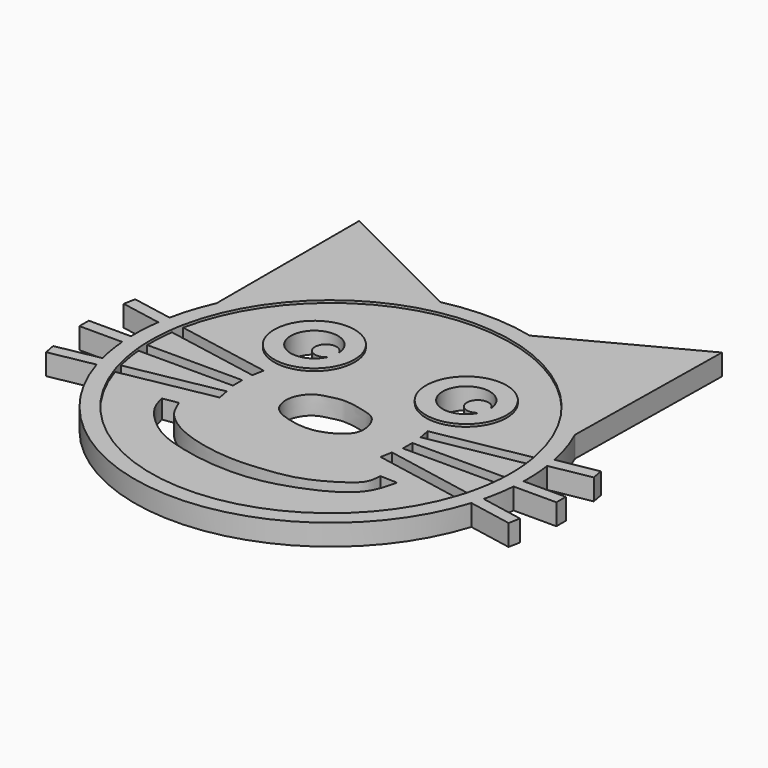
from build123d import *

# Parameters (mm, degrees)
F1_DEPTH = 2.15
F0_R     = 4.1036540216
F2_DEPTH = 1.9


with BuildPart() as f1:
    # F0 (on Top) → F1 (new body)
    with BuildSketch(Plane.XY):
        with BuildLine():
            ThreePointArc((-18.2315145686, 8.2226441328), (-12.65969487, 15.4832853684), (-4.4368690482, 19.5016459062))
            Line((-4.4368690482, 19.5016459062), (-18.2315145686, 26.3684952472))
            Line((-18.2315145686, 26.3684952472), (-18.2315145686, 8.2226441328))
        make_face()
        with BuildLine():
            ThreePointArc((19.6037292835, 3.9615398747), (19.0177158249, 6.1908387802), (18.179090742, 8.3379050004))
            ThreePointArc((18.179090742, 8.3379050004), (12.7135725246, 15.439076192), (4.6958516098, 19.4409098979))
            ThreePointArc((4.6958516098, 19.4409098979), (0.1330045393, 19.9995577399), (-4.4368690482, 19.5016459062))
            ThreePointArc((-4.4368690482, 19.5016459062), (-12.65969487, 15.4832853684), (-18.2315145686, 8.2226441328))
            ThreePointArc((-18.2315145686, 8.2226441328), (-19.0372180665, 6.1306058663), (-19.6037292835, 3.9615398747))
            Line((-19.6037292835, 3.9615398747), (-17.978764876, 3.6621177333))
            ThreePointArc((-17.978764876, 3.6621177333), (0, 18.3479451917), (17.978764876, 3.6621177333))
            Line((17.978764876, 3.6621177333), (19.6037292835, 3.9615398747))
        make_face()
        with BuildLine():
            ThreePointArc((4.6958516098, 19.4409098979), (12.7135725246, 15.439076192), (18.179090742, 8.3379050004))
            Line((18.179090742, 8.3379050004), (18.4577219188, 26.7067048699))
            Line((18.4577219188, 26.7067048699), (4.6958516098, 19.4409098979))
        make_face()
        with BuildLine():
            ThreePointArc((-18.3421170895, -0.4624212731), (-18.3200411776, 1.0115255856), (-18.1797121369, 2.4789431978))
            Line((-18.1797121369, 2.4789431978), (-19.8060417091, 2.7786168896))
            ThreePointArc((-19.8060417091, 2.7786168896), (-19.9662193685, 1.1619312074), (-19.9946534495, -0.4624212731))
            Line((-19.9946534495, -0.4624212731), (-18.3421170895, -0.4624212731))
        make_face()
        with BuildLine():
            ThreePointArc((-19.8060417091, 2.7786168896), (-19.7137601466, 3.3715961919), (-19.6037292835, 3.9615398747))
            Line((-19.6037292835, 3.9615398747), (-23.7219620696, 4.72038116))
            Line((-23.7219620696, 4.72038116), (-23.9394178087, 3.5402485397))
            Line((-23.9394178087, 3.5402485397), (-19.8060417091, 2.7786168896))
        make_face()
        with BuildLine():
            ThreePointArc((-18.1797121369, 2.4789431978), (-18.0889148505, 3.0721738704), (-17.978764876, 3.6621177333))
            Line((-17.978764876, 3.6621177333), (-19.6037292835, 3.9615398747))
            ThreePointArc((-19.6037292835, 3.9615398747), (-19.7137601466, 3.3715961919), (-19.8060417091, 2.7786168896))
            Line((-19.8060417091, 2.7786168896), (-18.1797121369, 2.4789431978))
        make_face()
        with BuildLine():
            ThreePointArc((-18.2724778908, -1.6624212731), (-18.3171269962, -1.0629917055), (-18.3421170895, -0.4624212731))
            Line((-18.3421170895, -0.4624212731), (-19.9946534495, -0.4624212731))
            ThreePointArc((-19.9946534495, -0.4624212731), (-19.9717360631, -1.0629010416), (-19.9307891342, -1.6624212731))
            Line((-19.9307891342, -1.6624212731), (-18.2724778908, -1.6624212731))
        make_face()
        with BuildLine():
            ThreePointArc((-19.9307891342, -1.6624212731), (-19.9717360631, -1.0629010416), (-19.9946534495, -0.4624212731))
            Line((-19.9946534495, -0.4624212731), (-24.2901714519, -0.4624212731))
            Line((-24.2901714519, -0.4624212731), (-24.2901714519, -1.6624212731))
            Line((-24.2901714519, -1.6624212731), (-19.9307891342, -1.6624212731))
        make_face()
        with BuildLine():
            ThreePointArc((-19.0850973204, -5.9798879815), (-19.2565147907, -5.4024659293), (-19.4104665936, -4.8201438381))
            Line((-19.4104665936, -4.8201438381), (-23.7761723296, -5.645501185))
            Line((-23.7761723296, -5.645501185), (-23.5532553866, -6.8246144266))
            Line((-23.5532553866, -6.8246144266), (-19.0850973204, -5.9798879815))
        make_face()
        with BuildLine():
            ThreePointArc((-17.4496494979, -5.6706988246), (-17.6265029869, -5.0944563215), (-17.7843327477, -4.5127155326))
            Line((-17.7843327477, -4.5127155326), (-19.4104665936, -4.8201438381))
            ThreePointArc((-19.4104665936, -4.8201438381), (-19.2565147907, -5.4024659293), (-19.0850973204, -5.9798879815))
            Line((-19.0850973204, -5.9798879815), (-17.4496494979, -5.6706988246))
        make_face()
        with BuildLine():
            ThreePointArc((-17.7843327477, -4.5127155326), (-18.0846466014, -3.0972003588), (-18.2724778908, -1.6624212731))
            Line((-18.2724778908, -1.6624212731), (-19.9307891342, -1.6624212731))
            ThreePointArc((-19.9307891342, -1.6624212731), (-19.7338897207, -3.2517067044), (-19.4104665936, -4.8201438381))
            Line((-19.4104665936, -4.8201438381), (-17.7843327477, -4.5127155326))
        make_face()
        with BuildLine():
            ThreePointArc((-19.0850973204, -5.9798879815), (0, -20), (19.0850973204, -5.9798879815))
            Line((19.0850973204, -5.9798879815), (17.4496494979, -5.6706988246))
            ThreePointArc((17.4496494979, -5.6706988246), (0, -18.3479451917), (-17.4496494979, -5.6706988246))
            Line((-17.4496494979, -5.6706988246), (-19.0850973204, -5.9798879815))
        make_face()
        with BuildLine():
            ThreePointArc((19.4104665936, -4.8201438381), (19.7338897207, -3.2517067044), (19.9307891342, -1.6624212731))
            Line((19.9307891342, -1.6624212731), (18.2724778908, -1.6624212731))
            ThreePointArc((18.2724778908, -1.6624212731), (18.0846466014, -3.0972003588), (17.7843327477, -4.5127155326))
            Line((17.7843327477, -4.5127155326), (19.4104665936, -4.8201438381))
        make_face()
        with BuildLine():
            ThreePointArc((19.0850973204, -5.9798879815), (19.2565147907, -5.4024659293), (19.4104665936, -4.8201438381))
            Line((19.4104665936, -4.8201438381), (17.7843327477, -4.5127155326))
            ThreePointArc((17.7843327477, -4.5127155326), (17.6265029869, -5.0944563215), (17.4496494979, -5.6706988246))
            Line((17.4496494979, -5.6706988246), (19.0850973204, -5.9798879815))
        make_face()
        with BuildLine():
            Line((23.7761723296, -5.645501185), (19.4104665936, -4.8201438381))
            ThreePointArc((19.4104665936, -4.8201438381), (19.2565147907, -5.4024659293), (19.0850973204, -5.9798879815))
            Line((19.0850973204, -5.9798879815), (23.5532553866, -6.8246144266))
            Line((23.5532553866, -6.8246144266), (23.7761723296, -5.645501185))
        make_face()
        with BuildLine():
            Line((24.2901714519, -0.4624212731), (19.9946534495, -0.4624212731))
            ThreePointArc((19.9946534495, -0.4624212731), (19.9717360631, -1.0629010416), (19.9307891342, -1.6624212731))
            Line((19.9307891342, -1.6624212731), (24.2901714519, -1.6624212731))
            Line((24.2901714519, -1.6624212731), (24.2901714519, -0.4624212731))
        make_face()
        with BuildLine():
            ThreePointArc((19.9307891342, -1.6624212731), (19.9717360631, -1.0629010416), (19.9946534495, -0.4624212731))
            Line((19.9946534495, -0.4624212731), (18.3421170895, -0.4624212731))
            ThreePointArc((18.3421170895, -0.4624212731), (18.3171269962, -1.0629917055), (18.2724778908, -1.6624212731))
            Line((18.2724778908, -1.6624212731), (19.9307891342, -1.6624212731))
        make_face()
        with BuildLine():
            ThreePointArc((20, 0), (19.9514515033, 1.3926890929), (19.8060417091, 2.7786168896))
            Line((19.8060417091, 2.7786168896), (18.1797121369, 2.4789431978))
            ThreePointArc((18.1797121369, 2.4789431978), (18.305838613, 1.2423225969), (18.3479451917, 0))
            ThreePointArc((18.3479451917, 0), (18.3464881083, -0.2312289993), (18.3421170895, -0.4624212731))
            Line((18.3421170895, -0.4624212731), (19.9946534495, -0.4624212731))
            ThreePointArc((19.9946534495, -0.4624212731), (19.9986633177, -0.2312260903), (20, 0))
        make_face()
        with BuildLine():
            Line((23.7219620696, 4.72038116), (19.6037292835, 3.9615398747))
            ThreePointArc((19.6037292835, 3.9615398747), (19.7137601466, 3.3715961919), (19.8060417091, 2.7786168896))
            Line((19.8060417091, 2.7786168896), (23.9394178087, 3.5402485397))
            Line((23.9394178087, 3.5402485397), (23.7219620696, 4.72038116))
        make_face()
        with BuildLine():
            ThreePointArc((19.8060417091, 2.7786168896), (19.7137601466, 3.3715961919), (19.6037292835, 3.9615398747))
            Line((19.6037292835, 3.9615398747), (17.978764876, 3.6621177333))
            ThreePointArc((17.978764876, 3.6621177333), (18.0889148505, 3.0721738704), (18.1797121369, 2.4789431978))
            Line((18.1797121369, 2.4789431978), (19.8060417091, 2.7786168896))
        make_face()
    extrude(amount=F1_DEPTH)


with BuildPart() as f1b:
    # F0 (on Top) → F1, piece 2 (new body)
    with BuildSketch(Plane.XY):
        with Locations((-7.7118381825, 7.5312841645)):
            Circle(F0_R)
        with BuildLine():
            ThreePointArc((-5.5369759371, 6.5077966729), (-10.0723658161, 7.9845630229), (-5.3125703898, 7.6764271657))
            ThreePointArc((-5.3125703898, 7.6764271657), (-5.253350505, 7.4752971286), (-5.2333685565, 7.2665843875))
            ThreePointArc((-5.2333685565, 7.2665843875), (-5.3120870377, 6.8579475569), (-5.5369759371, 6.5077966729))
        make_face(mode=Mode.SUBTRACT)
        with BuildLine():
            ThreePointArc((-5.5369759371, 6.5077966729), (-5.3660793806, 7.0069101804), (-5.3081842074, 7.5312841645))
            ThreePointArc((-5.3081842074, 7.5312841645), (-5.3092810033, 7.6038887948), (-5.3125703898, 7.6764271657))
            ThreePointArc((-5.3125703898, 7.6764271657), (-7.4136323648, 7.4740213769), (-5.5369759371, 6.5077966729))
        make_face()
        with BuildLine():
            ThreePointArc((-5.3125703898, 7.6764271657), (-5.3092810033, 7.6038887948), (-5.3081842074, 7.5312841645))
            ThreePointArc((-5.3081842074, 7.5312841645), (-5.3660793806, 7.0069101804), (-5.5369759371, 6.5077966729))
            ThreePointArc((-5.5369759371, 6.5077966729), (-5.3120870377, 6.8579475569), (-5.2333685565, 7.2665843875))
            ThreePointArc((-5.2333685565, 7.2665843875), (-5.253350505, 7.4752971286), (-5.3125703898, 7.6764271657))
        make_face()
    extrude(amount=F1_DEPTH)


with BuildPart() as f1c:
    # F0 (on Top) → F1, piece 3 (new body)
    with BuildSketch(Plane.XY):
        with Locations((7.7149522848, 7.5865211994)):
            Circle(F0_R)
        with BuildLine():
            ThreePointArc((9.8898145302, 6.5630337078), (5.3544246513, 8.0398000578), (10.1142200775, 7.7316642005))
            ThreePointArc((10.1142200775, 7.7316642005), (10.1734399624, 7.5305341635), (10.1934219108, 7.3218214224))
            ThreePointArc((10.1934219108, 7.3218214224), (10.1147034296, 6.9131845918), (9.8898145302, 6.5630337078))
        make_face(mode=Mode.SUBTRACT)
        with BuildLine():
            ThreePointArc((9.8898145302, 6.5630337078), (10.0607110867, 7.0621472153), (10.1186062599, 7.5865211994))
            ThreePointArc((10.1186062599, 7.5865211994), (10.1175094641, 7.6591258297), (10.1142200775, 7.7316642005))
            ThreePointArc((10.1142200775, 7.7316642005), (8.0131581026, 7.5292584118), (9.8898145302, 6.5630337078))
        make_face()
        with BuildLine():
            ThreePointArc((10.1142200775, 7.7316642005), (10.1175094641, 7.6591258297), (10.1186062599, 7.5865211994))
            ThreePointArc((10.1186062599, 7.5865211994), (10.0607110867, 7.0621472153), (9.8898145302, 6.5630337078))
            ThreePointArc((9.8898145302, 6.5630337078), (10.1147034296, 6.9131845918), (10.1934219108, 7.3218214224))
            ThreePointArc((10.1934219108, 7.3218214224), (10.1734399624, 7.5305341635), (10.1142200775, 7.7316642005))
        make_face()
    extrude(amount=F1_DEPTH)


with BuildPart() as f2:
    # F0 (on Top) → F2 (new body)
    with BuildSketch(Plane.XY):
        with BuildLine():
            Line((8.3496756393, 1.887825013), (17.978764876, 3.6621177333))
            ThreePointArc((17.978764876, 3.6621177333), (0, 18.3479451917), (-17.978764876, 3.6621177333))
            Line((-17.978764876, 3.6621177333), (-8.3496756393, 1.887825013))
            Line((-8.3496756393, 1.887825013), (-8.5671313784, 0.7076923927))
            Line((-8.5671313784, 0.7076923927), (-18.1797121369, 2.4789431978))
            ThreePointArc((-18.1797121369, 2.4789431978), (-18.3200411776, 1.0115255856), (-18.3421170895, -0.4624212731))
            Line((-18.3421170895, -0.4624212731), (-8.6590945721, -0.4624212731))
            Line((-8.6590945721, -0.4624212731), (-8.6590945721, -1.6624212731))
            Line((-8.6590945721, -1.6624212731), (-18.2724778908, -1.6624212731))
            ThreePointArc((-18.2724778908, -1.6624212731), (-18.0846466014, -3.0972003588), (-17.7843327477, -4.5127155326))
            Line((-17.7843327477, -4.5127155326), (-8.4171642217, -2.7418079567))
            Line((-8.4171642217, -2.7418079567), (-8.1942472787, -3.9209211983))
            Line((-8.1942472787, -3.9209211983), (-17.4496494979, -5.6706988246))
            ThreePointArc((-17.4496494979, -5.6706988246), (0, -18.3479451917), (17.4496494979, -5.6706988246))
            Line((17.4496494979, -5.6706988246), (8.1942472787, -3.9209211983))
            Line((8.1942472787, -3.9209211983), (8.4171642217, -2.7418079567))
            Line((8.4171642217, -2.7418079567), (17.7843327477, -4.5127155326))
            ThreePointArc((17.7843327477, -4.5127155326), (18.0846466014, -3.0972003588), (18.2724778908, -1.6624212731))
            Line((18.2724778908, -1.6624212731), (8.6590945721, -1.6624212731))
            Line((8.6590945721, -1.6624212731), (8.6590945721, -0.4624212731))
            Line((8.6590945721, -0.4624212731), (18.3421170895, -0.4624212731))
            ThreePointArc((18.3421170895, -0.4624212731), (18.3464881083, -0.2312289993), (18.3479451917, 0))
            ThreePointArc((18.3479451917, 0), (18.305838613, 1.2423225969), (18.1797121369, 2.4789431978))
            Line((18.1797121369, 2.4789431978), (8.5671313784, 0.7076923927))
            Line((8.5671313784, 0.7076923927), (8.3496756393, 1.887825013))
        make_face()
        with BuildLine():
            Line((-11.6958739236, -6.9176834077), (-10.1618021727, -6.6620046273))
            add(Edge.make_bspline(
                [(-10.1618021727, -6.6620046273), (-9.8900116773, -7.3300264218), (-9.2706047281, -8.8524392682), (-6.0490483327, -10.8328828476), (-1.3745638516, -11.690245176), (1.9800848773, -11.4468079335), (5.5595215389, -11.0179939412), (8.7279029447, -9.1864827043), (10.1426697727, -7.9661276659), (10.2098408587, -6.9739310726), (10.2413436398, -6.5085976385)],
                knots=[0, 0, 0, 0, 0.1087885677, 0.2479277089, 0.4071152467, 0.5412765042, 0.6796227072, 0.8188582734, 0.9150457659, 1, 1, 1, 1], degree=3))
            Line((10.2413436398, -6.5085976385), (11.9799589738, -6.5597333014))
            add(Edge.make_bspline(
                [(-11.6958739236, -6.9176834077), (-11.5432726645, -7.5145274134), (-11.1904906877, -8.894305074), (-8.5974695498, -11.3626813298), (-6.2456902452, -12.3743976683), (-2.2369994203, -13.3243571631), (2.3289760904, -13.4155306098), (6.1632762213, -12.3582244459), (9.5239431845, -10.8326055627), (11.4033144172, -8.9902188317), (11.7886527022, -7.3660655901), (11.9799589738, -6.5597333014)],
                knots=[0, 0, 0, 0, 0.0874959413, 0.2022721917, 0.3028006249, 0.4278145213, 0.5613757119, 0.6859804824, 0.804699095, 0.903040291, 1, 1, 1, 1], degree=3))
        make_face(mode=Mode.SUBTRACT)
        with BuildLine():
            add(Edge.make_bspline(
                [(0, 1.8378595123), (-0.4987013095, 1.8506227906), (-1.2332615441, 1.6769219671), (-2.904337988, 1.306683963), (-4.0573022018, -0.5231820909), (-3.5249184784, -2.6958648787), (-1.6642591529, -3.4764890484), (0.7978749827, -3.9253086049), (3.0182361275, -3.0665363229), (4.543548882, -1.6513964591), (3.8129464246, 0.880339001), (2.4191893632, 1.4692653954), (0.6847440305, 1.8203348367), (0, 1.8378595123)],
                knots=[0, 0, 0, 0, 0.0739136356, 0.1563551567, 0.2483102745, 0.3396572591, 0.4293536009, 0.5323106777, 0.6322081288, 0.7213164828, 0.8185830799, 0.898512557, 1, 1, 1, 1], degree=3))
        make_face(mode=Mode.SUBTRACT)
        with Locations((-7.7118381825, 7.5312841645)):
            Circle(F0_R, mode=Mode.SUBTRACT)
        with Locations((7.7149522848, 7.5865211994)):
            Circle(F0_R, mode=Mode.SUBTRACT)
    extrude(amount=F2_DEPTH)


with BuildPart() as f1b_1:
    add(f1b.part)

    # F3: union F1, F1c, F2
    add(f1.part)
    add(f1c.part)
    add(f2.part)


solid = f1b_1.part
